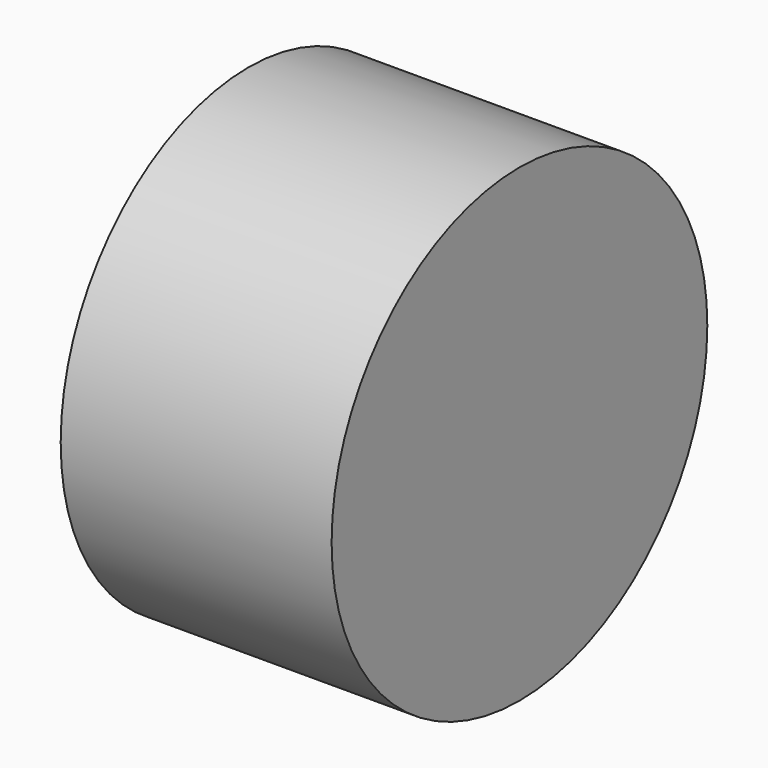
from build123d import *

# Parameters (mm, degrees)
F0_W = 2
F0_H = 4
F2_R = 1


with BuildPart() as f1:
    # F0 (on Front) → F1 (revolve)
    with BuildSketch(Plane.XZ):
        Polygon((15, 13), (0, 13), (0, 9.7), (2, 9.7), (9, 9.7), (9, 5.7), (2, 5.7), (0, 5.7), (0, 1.7), (9, 1.7), (9, 0), (15, 0), align=None)
        with Locations((1, 7.7)):
            Rectangle(F0_W, F0_H)
    revolve(axis=Axis((7.5, 0, 0), (1, 0, 0)))

    # F2
    f2_edges = [f1.edges().sort_by_distance(p)[0] for p in [
        (0, 0, -1.7),
    ]]
    fillet(f2_edges, radius=F2_R)


solid = f1.part
